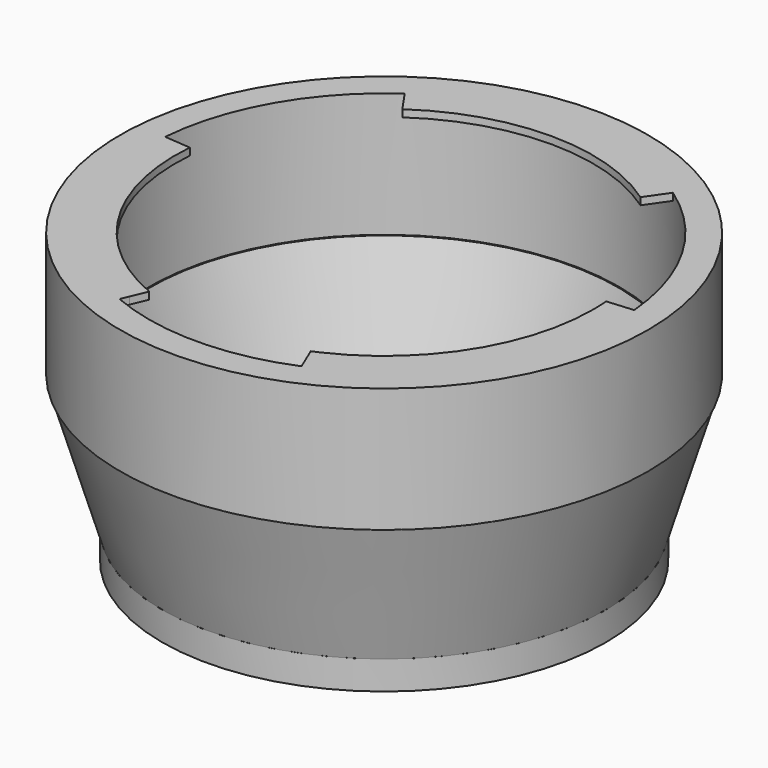
from build123d import *

# Parameters (mm, degrees)
F10_R    = 31
F10_R_2  = 27
F1_DEPTH = 4
F3_R     = 36.865
F3_R_2   = 32.865
F4_DEPTH = 17.39
F8_DEPTH = 1
F9_DEPTH = 3


with BuildPart() as f1:
    # F10 (on Top) → F1 (new body)
    with BuildSketch(Plane.XY):
        Circle(F10_R)
        Circle(F10_R_2, mode=Mode.SUBTRACT)
    extrude(amount=F1_DEPTH)


with BuildPart() as f4:
    # F3 (on offset) → F4 (new body)
    with BuildSketch(Plane.XY.offset(22.92)):
        Circle(F3_R)
        Circle(F3_R_2, mode=Mode.SUBTRACT)
    extrude(amount=F4_DEPTH)

    # F6 (on offset) → F8 (join)
    with BuildSketch(Plane.XY.offset(40.31)):
        with BuildLine():
            ThreePointArc((-32.8518569318, 2.7288681042), (-28.1807336862, -17.103726901), (-12.743658147, -30.4021446946))
            Line((-12.743658147, -30.4021446946), (-12.2284547539, -29.1730401531))
            Line((-12.2284547539, -29.1730401531), (-11.2777567365, -26.9049897745))
            ThreePointArc((-11.2777567365, -26.9049897745), (-24.9391073979, -15.1362873245), (-29.072911918, 2.4149667459))
            Line((-29.072911918, 2.4149667459), (-32.8518569318, 2.7288681042))
        make_face()
        with BuildLine():
            Line((16.6278785102, 23.97039691), (18.7891975678, 27.0861086123))
            ThreePointArc((18.7891975678, 27.0861086123), (0, 32.965), (-18.7891975678, 27.0861086123))
            Line((-18.7891975678, 27.0861086123), (-16.6278785102, 23.97039691))
            ThreePointArc((-16.6278785102, 23.97039691), (0, 29.1730401531), (16.6278785102, 23.97039691))
        make_face()
        with BuildLine():
            ThreePointArc((13.8877431902, -29.8968529127), (27.789392574, -17.7324810832), (32.965, 0))
            ThreePointArc((32.965, 0), (32.9367020872, 1.3656063199), (32.8518569318, 2.7288681042))
            Line((32.8518569318, 2.7288681042), (29.072911918, 2.4149667459))
            ThreePointArc((29.072911918, 2.4149667459), (29.1479973456, 1.2085207949), (29.1730401531, 0))
            ThreePointArc((29.1730401531, 0), (24.5927822051, -15.6927159914), (12.2902378196, -26.4578216433))
            Line((12.2902378196, -26.4578216433), (13.8877431902, -29.8968529127))
        make_face()
    extrude(amount=-F8_DEPTH)

    # F6 (on offset) → F9 (join)
    with BuildSketch(Plane.XY.offset(40.31)):
        with BuildLine():
            ThreePointArc((12.743658147, -30.4021446946), (13.3180972455, -30.1549251493), (13.8877431902, -29.8968529127))
            Line((13.8877431902, -29.8968529127), (12.2902378196, -26.4578216433))
            ThreePointArc((12.2902378196, -26.4578216433), (11.786118177, -26.6862078627), (11.2777567365, -26.9049897745))
            Line((11.2777567365, -26.9049897745), (12.2284547539, -29.1730401531))
            Line((12.2284547539, -29.1730401531), (12.743658147, -30.4021446946))
        make_face()
    extrude(amount=-F9_DEPTH)


with BuildPart() as f7:
    # F7: sweep along a path in F7_path
    with BuildLine(Plane(origin=(27, 0, 4), x_dir=(0, -1, 0), z_dir=(0, 0, -1))) as f7_path:
        CenterArc((0, 27), 27, 0, 360)
    # F0 (on Front) → F7 (sweep)
    with BuildSketch(Plane.XZ):
        Polygon((-27, 4), (-32.7, 22.92), (-36.7, 22.92), (-31, 4), align=None)
    sweep(path=f7_path.line)


solid = Compound([f1.part, f4.part, f7.part])
